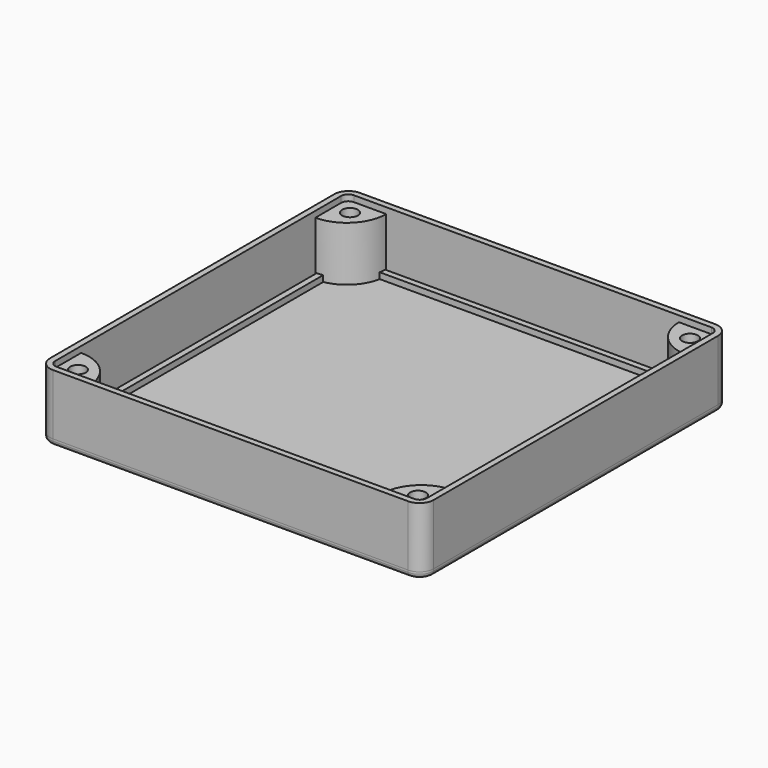
from build123d import *

# Parameters (mm, degrees)
PAD_DEPTH                     = 16.5
POCKET_DEPTH                  = 15
SKETCH002_R                   = 1.95
PAD001_DEPTH                  = 13.5
SKETCH002_MIRRORED_2_R        = 1.95
PAD001_MIRRORED_2_DEPTH       = 13.5
FILLET_R                      = 1
SKETCH008_R                   = 1.5
SKETCH008_R_2                 = 2
POCKET003_DEPTH               = 5
SKETCH009_R                   = 4.5
POCKET004_DEPTH               = 0.75
POCKET005_DEPTH               = 0.5
PAD002_DEPTH                  = 1.5
PAD003_DEPTH                  = 1.5
POCKET001_DEPTH               = 1.5
SKETCH006_R                   = 1.5
PAD004_DEPTH                  = 1.5
SKETCH006_MIRRORED002_2_R     = 1.5
PAD004_MIRRORED002_2_DEPTH    = 1.5
SKETCH007_R                   = 1.5
POCKET002_DEPTH               = 1.5
SKETCH007_MIRRORED004_2_R     = 1.5
POCKET002_MIRRORED004_2_DEPTH = 1.5
FILLET001_R                   = 1
CHAMFER_SIZE                  = 1.98
SKETCH010_W                   = 84.364
SKETCH010_H                   = 26.508
PAD005_DEPTH                  = 0.1
PAD006_DEPTH                  = 0.4


with BuildPart() as main_box:
    # Sketch → Pad (new body)
    with BuildSketch(Plane.XY):
        with BuildLine():
            Line((-44, 47.5), (44, 47.5))
            ThreePointArc((47.5, 44), (46.474874, 46.474874), (44, 47.5))
            Line((47.5, 44), (47.5, -44))
            ThreePointArc((44, -47.5), (46.474874, -46.474874), (47.5, -44))
            Line((44, -47.5), (-44, -47.5))
            ThreePointArc((-47.5, -44), (-46.474874, -46.474874), (-44, -47.5))
            Line((-47.5, -44), (-47.5, 44))
            ThreePointArc((-44, 47.5), (-46.474874, 46.474874), (-47.5, 44))
        make_face()
    extrude(amount=PAD_DEPTH)

    # Sketch001 (on Face10 of Pad) → Pocket (cut)
    with BuildSketch(Plane.XY.offset(16.5)):
        with BuildLine():
            Line((-44.25, 46), (44.25, 46))
            ThreePointArc((46, 44.25), (45.487437, 45.487437), (44.25, 46))
            Line((46, 44.25), (46, -44.25))
            ThreePointArc((44.25, -46), (45.487437, -45.487437), (46, -44.25))
            Line((44.25, -46), (-44.25, -46))
            ThreePointArc((-46, -44.25), (-45.487437, -45.487437), (-44.25, -46))
            Line((-46, -44.25), (-46, 44.25))
            ThreePointArc((-44.25, 46), (-45.487437, 45.487437), (-46, 44.25))
        make_face()
    extrude(amount=-POCKET_DEPTH, mode=Mode.SUBTRACT)

    # Sketch002 (on Face19 of Pocket) → Pad001 (join)
    with BuildSketch(Plane.XY.offset(1.5)):
        with BuildLine():
            Line((-46, 36.25), (-46, 46))
            Line((-46, 46), (-36.25, 46))
            ThreePointArc((-46, 36.25), (-39.105709, 39.105709), (-36.25, 46))
        make_face()
        with Locations((-42.1, 42.1)):
            Circle(SKETCH002_R, mode=Mode.SUBTRACT)
    pad001 = extrude(amount=PAD001_DEPTH)

    # Sketch002 Mirrored 2 → Pad001 Mirrored 2 (add)
    with BuildSketch(Plane(origin=(0, 0, 1.5), x_dir=(-1, 0, 0), z_dir=(0, 0, -1))):
        with BuildLine():
            Line((-46, 36.25), (-46, 46))
            Line((-46, 46), (-36.25, 46))
            ThreePointArc((-46, 36.25), (-39.105709, 39.105709), (-36.25, 46))
        make_face()
        with Locations((-42.1, 42.1)):
            Circle(SKETCH002_MIRRORED_2_R, mode=Mode.SUBTRACT)
    pad001_mirrored_2 = extrude(amount=-PAD001_MIRRORED_2_DEPTH)

    # Mirrored001: Pad001, Pad001 Mirrored 2 across Sketch002 H_Axis
    add(pad001.mirror(Plane(origin=(0, 0, 1.5), x_dir=(0, 0, 1), z_dir=(0, 1, 0))))
    add(pad001_mirrored_2.mirror(Plane(origin=(0, 0, 1.5), x_dir=(0, 0, 1), z_dir=(0, 1, 0))))

    # Fillet
    fillet_edges = [main_box.edges().sort_by_distance(p)[0] for p in [
        (-47.5, 0, 0),
        (-46.474874, 46.474874, 0),
        (0, 47.5, 0),
        (46.474874, 46.474874, 0),
        (47.5, 0, 0),
        (46.474874, -46.474874, 0),
        (0, -47.5, 0),
        (-46.474874, -46.474874, 0),
    ]]
    fillet(fillet_edges, radius=FILLET_R)

    # Sketch008 (on Face29 of Fillet) → Pocket003 (cut)
    with BuildSketch(Plane.XY.offset(1.5)):
        with Locations((0, -33.5)):
            Circle(SKETCH008_R)
        with Locations((-5.5, -5.5)):
            Circle(SKETCH008_R_2)
        with Locations((5.5, -5.5)):
            Circle(SKETCH008_R_2)
        with Locations((-22.125, 2.15)):
            Circle(SKETCH008_R)
        with Locations((-22.125, -42.1)):
            Circle(SKETCH008_R)
        with Locations((22.125, -42.1)):
            Circle(SKETCH008_R)
        with Locations((22.125, 2.15)):
            Circle(SKETCH008_R)
    extrude(amount=-POCKET003_DEPTH, mode=Mode.SUBTRACT)

    # Sketch009 (on Face36 of Pocket003) → Pocket004 (cut)
    with BuildSketch(Plane.XY.offset(1.5)):
        with Locations((-5.5, -5.5)):
            Circle(SKETCH009_R)
        with Locations((5.5, -5.5)):
            Circle(SKETCH009_R)
    extrude(amount=-POCKET004_DEPTH, mode=Mode.SUBTRACT)

    # Clone2D → Pocket005 (cut)
    with BuildSketch(Plane(origin=(0, 27, 0), x_dir=(1, 0, 0), z_dir=(0, 0, 1))):
        with BuildLine():
            add(Edge.make_bspline(
                [(41.189499, -12), (37.085211, 12)],
                knots=[0, 0, 24.348412, 24.348412], degree=1))
            add(Edge.make_bspline(
                [(37.085211, 12), (33.04633, 12)],
                knots=[0, 0, 4.038881, 4.038881], degree=1))
            add(Edge.make_bspline(
                [(33.04633, 12), (34.779615, 1.918605)],
                knots=[0, 0, 10.229311, 10.229311], degree=1))
            add(Edge.make_bspline(
                [(34.779615, 1.918605), (25.688045, 12)],
                knots=[0, 0, 13.575389, 13.575389], degree=1))
            add(Edge.make_bspline(
                [(25.688045, 12), (20.259266, 12)],
                knots=[0, 0, 5.428779, 5.428779], degree=1))
            add(Edge.make_bspline(
                [(20.259266, 12), (29.10556, 2.550872)],
                knots=[0, 0, 12.943837, 12.943837], degree=1))
            add(Edge.make_bspline(
                [(29.10556, 2.550872), (22.630269, -12)],
                knots=[0, 0, 15.926621, 15.926621], degree=1))
            add(Edge.make_bspline(
                [(22.630269, -12), (27.192406, -12)],
                knots=[0, 0, 4.562137, 4.562137], degree=1))
            add(Edge.make_bspline(
                [(27.192406, -12), (32.048874, -0.610465)],
                knots=[0, 0, 12.381712, 12.381712], degree=1))
            add(Edge.make_bspline(
                [(32.048874, -0.610465), (35.85883, -4.696221)],
                knots=[0, 0, 5.586517, 5.586517], degree=1))
            add(Edge.make_bspline(
                [(35.85883, -4.696221), (37.117914, -12)],
                knots=[0, 0, 7.41151, 7.41151], degree=1))
            add(Edge.make_bspline(
                [(37.117914, -12), (41.189499, -12)],
                knots=[0, 0, 4.071584, 4.071584], degree=1))
        make_face()
        with BuildLine():
            add(Edge.make_bspline(
                [(19.609557, 7.395349), (18.873728, 11.651163)],
                knots=[0, 0, 4.318958, 4.318958], degree=1))
            add(Edge.make_bspline(
                [(18.873728, 11.651163), (5.906795, 11.651163)],
                knots=[0, 0, 12.966933, 12.966933], degree=1))
            add(Edge.make_bspline(
                [(5.906795, 11.651163), (6.479106, 8.314317)],
                knots=[0, 0, 3.385569, 3.385569], degree=1))
            add(Edge.make_bspline(
                [(6.479106, 8.314317), (7.492914, 7.31686), (8.621185, 5.598837)],
                knots=[0, 0, 0, 1, 1, 1], degree=2))
            add(Edge.make_bspline(
                [(8.621185, 5.598837), (10.240007, 3.129724), (11.384629, 0.577762)],
                knots=[0, 0, 0, 1, 1, 1], degree=2))
            add(Edge.make_bspline(
                [(11.384629, 0.577762), (12.970749, -2.988009), (13.870094, -5.931323)],
                knots=[0, 0, 0, 1, 1, 1], degree=2))
            add(Edge.make_bspline(
                [(13.870094, -5.931323), (15.112827, -10.037791), (15.42351, -12)],
                knots=[0, 0, 0, 1, 1, 1], degree=2))
            add(Edge.make_bspline(
                [(15.42351, -12), (19.086301, -12)],
                knots=[0, 0, 3.662791, 3.662791], degree=1))
            add(Edge.make_bspline(
                [(19.086301, -12), (18.759266, -9.601744), (17.565589, -5.791788)],
                knots=[0, 0, 0, 1, 1, 1], degree=2))
            add(Edge.make_bspline(
                [(17.565589, -5.791788), (16.371911, -1.981831), (14.802144, 1.261265)],
                knots=[0, 0, 0, 1, 1, 1], degree=2))
            add(Edge.make_bspline(
                [(14.802144, 1.261265), (13.232376, 4.505451), (11.20476, 7.395349)],
                knots=[0, 0, 0, 1, 1, 1], degree=2))
            add(Edge.make_bspline(
                [(11.20476, 7.395349), (19.609557, 7.395349)],
                knots=[0, 0, 8.404797, 8.404797], degree=1))
        make_face()
        with BuildLine():
            add(Edge.make_bspline(
                [(6.080124, -12), (1.975836, 12)],
                knots=[0, 0, 24.348412, 24.348412], degree=1))
            add(Edge.make_bspline(
                [(1.975836, 12), (-4.761083, 12)],
                knots=[0, 0, 6.736919, 6.736919], degree=1))
            add(Edge.make_bspline(
                [(-4.761083, 12), (-7.459121, 12), (-8.603743, 11.655523)],
                knots=[0, 0, 0, 1, 1, 1], degree=2))
            add(Edge.make_bspline(
                [(-8.603743, 11.655523), (-10.386083, 11.131177), (-11.350836, 9.705305)],
                knots=[0, 0, 0, 1, 1, 1], degree=2))
            add(Edge.make_bspline(
                [(-11.350836, 9.705305), (-12.315589, 8.280523), (-12.315589, 6.182049)],
                knots=[0, 0, 0, 1, 1, 1], degree=2))
            add(Edge.make_bspline(
                [(-12.315589, 6.182049), (-12.315589, 4.068314), (-11.383539, 2.642442)],
                knots=[0, 0, 0, 1, 1, 1], degree=2))
            add(Edge.make_bspline(
                [(-11.383539, 2.642442), (-10.45149, 1.21657), (-8.587391, 0.479651)],
                knots=[0, 0, 0, 1, 1, 1], degree=2))
            add(Edge.make_bspline(
                [(-8.587391, 0.479651), (-10.042696, -0.010901), (-10.916969, -1.287427)],
                knots=[0, 0, 0, 1, 1, 1], degree=2))
            add(Edge.make_bspline(
                [(-10.916969, -1.287427), (-11.792333, -2.562863), (-11.792333, -4.263445)],
                knots=[0, 0, 0, 1, 1, 1], degree=2))
            add(Edge.make_bspline(
                [(-11.792333, -4.263445), (-11.792333, -6.586483), (-10.7371, -8.468023)],
                knots=[0, 0, 0, 1, 1, 1], degree=2))
            add(Edge.make_bspline(
                [(-10.7371, -8.468023), (-9.682958, -10.348474), (-7.990007, -11.174782)],
                knots=[0, 0, 0, 1, 1, 1], degree=2))
            add(Edge.make_bspline(
                [(-7.990007, -11.174782), (-6.298147, -12), (-3.191315, -12)],
                knots=[0, 0, 0, 1, 1, 1], degree=2))
            add(Edge.make_bspline(
                [(-3.191315, -12), (6.080124, -12)],
                knots=[0, 0, 9.271439, 9.271439], degree=1))
        make_face()
        with BuildLine():
            add(Edge.make_bspline(
                [(1.370821, -8.162791), (-2.520894, -8.162791)],
                knots=[0, 0, 3.891715, 3.891715], degree=1))
            add(Edge.make_bspline(
                [(-2.520894, -8.162791), (-4.810138, -8.162791), (-5.660429, -7.834666)],
                knots=[0, 0, 0, 1, 1, 1], degree=2))
            add(Edge.make_bspline(
                [(-5.660429, -7.834666), (-6.510719, -7.506541), (-7.083031, -6.630087)],
                knots=[0, 0, 0, 1, 1, 1], degree=2))
            add(Edge.make_bspline(
                [(-7.083031, -6.630087), (-7.655342, -5.752544), (-7.655342, -4.654797)],
                knots=[0, 0, 0, 1, 1, 1], degree=2))
            add(Edge.make_bspline(
                [(-7.655342, -4.654797), (-7.655342, -3.359738), (-6.903161, -2.62173)],
                knots=[0, 0, 0, 1, 1, 1], degree=2))
            add(Edge.make_bspline(
                [(-6.903161, -2.62173), (-6.150981, -1.883721), (-4.532158, -1.883721)],
                knots=[0, 0, 0, 1, 1, 1], degree=2))
            add(Edge.make_bspline(
                [(-4.532158, -1.883721), (0.307958, -1.883721)],
                knots=[0, 0, 4.840116, 4.840116], degree=1))
            add(Edge.make_bspline(
                [(0.307958, -1.883721), (1.370821, -8.162791)],
                knots=[0, 0, 6.36839, 6.36839], degree=1))
        make_face(mode=Mode.SUBTRACT)
        with BuildLine():
            add(Edge.make_bspline(
                [(-0.411519, 2.302326), (-3.501999, 2.302326)],
                knots=[0, 0, 3.09048, 3.09048], degree=1))
            add(Edge.make_bspline(
                [(-3.501999, 2.302326), (-5.529615, 2.302326), (-6.412609, 2.631541)],
                knots=[0, 0, 0, 1, 1, 1], degree=2))
            add(Edge.make_bspline(
                [(-6.412609, 2.631541), (-7.295603, 2.961846), (-7.802507, 3.769622)],
                knots=[0, 0, 0, 1, 1, 1], degree=2))
            add(Edge.make_bspline(
                [(-7.802507, 3.769622), (-8.309411, 4.577398), (-8.309411, 5.616279)],
                knots=[0, 0, 0, 1, 1, 1], degree=2))
            add(Edge.make_bspline(
                [(-8.309411, 5.616279), (-8.309411, 6.456759), (-7.933321, 7.042151)],
                knots=[0, 0, 0, 1, 1, 1], degree=2))
            add(Edge.make_bspline(
                [(-7.933321, 7.042151), (-7.557231, 7.627544), (-6.98492, 7.824855)],
                knots=[0, 0, 0, 1, 1, 1], degree=2))
            add(Edge.make_bspline(
                [(-6.98492, 7.824855), (-6.412609, 8.023256), (-4.515807, 8.023256)],
                knots=[0, 0, 0, 1, 1, 1], degree=2))
            add(Edge.make_bspline(
                [(-4.515807, 8.023256), (-1.392624, 8.023256)],
                knots=[0, 0, 3.123183, 3.123183], degree=1))
            add(Edge.make_bspline(
                [(-1.392624, 8.023256), (-0.411519, 2.302326)],
                knots=[0, 0, 5.804447, 5.804447], degree=1))
        make_face(mode=Mode.SUBTRACT)
        with BuildLine():
            add(Edge.make_bspline(
                [(-13.603016, -12), (-17.707304, 12)],
                knots=[0, 0, 24.348412, 24.348412], degree=1))
            add(Edge.make_bspline(
                [(-17.707304, 12), (-21.746185, 12)],
                knots=[0, 0, 4.038881, 4.038881], degree=1))
            add(Edge.make_bspline(
                [(-21.746185, 12), (-17.641897, -12)],
                knots=[0, 0, 24.348412, 24.348412], degree=1))
            add(Edge.make_bspline(
                [(-17.641897, -12), (-13.603016, -12)],
                knots=[0, 0, 4.038881, 4.038881], degree=1))
        make_face()
        with BuildLine():
            add(Edge.make_bspline(
                [(-37.085211, -12), (-33.307958, -12)],
                knots=[0, 0, 3.777253, 3.777253], degree=1))
            add(Edge.make_bspline(
                [(-33.307958, -12), (-27.993641, 4.125)],
                knots=[0, 0, 16.97815, 16.97815], degree=1))
            add(Edge.make_bspline(
                [(-27.993641, 4.125), (-25.246548, -12)],
                knots=[0, 0, 16.357327, 16.357327], degree=1))
            add(Edge.make_bspline(
                [(-25.246548, -12), (-21.469295, -12)],
                knots=[0, 0, 3.777253, 3.777253], degree=1))
            add(Edge.make_bspline(
                [(-21.469295, -12), (-25.573583, 12)],
                knots=[0, 0, 24.348412, 24.348412], degree=1))
            add(Edge.make_bspline(
                [(-25.573583, 12), (-29.350836, 12)],
                knots=[0, 0, 3.777253, 3.777253], degree=1))
            add(Edge.make_bspline(
                [(-29.350836, 12), (-34.665153, -4.059593)],
                knots=[0, 0, 16.916042, 16.916042], degree=1))
            add(Edge.make_bspline(
                [(-34.665153, -4.059593), (-37.412246, 12)],
                knots=[0, 0, 16.292853, 16.292853], degree=1))
            add(Edge.make_bspline(
                [(-37.412246, 12), (-41.189499, 12)],
                knots=[0, 0, 3.777253, 3.777253], degree=1))
            add(Edge.make_bspline(
                [(-41.189499, 12), (-37.085211, -12)],
                knots=[0, 0, 24.348412, 24.348412], degree=1))
        make_face()
    extrude(amount=POCKET005_DEPTH, mode=Mode.SUBTRACT)


with BuildPart() as main_lid:
    # Sketch003 → Pad002 (new body)
    with BuildSketch(Plane.XY):
        with BuildLine():
            Line((-44, 47.5), (44, 47.5))
            ThreePointArc((47.5, 44), (46.474874, 46.474874), (44, 47.5))
            Line((47.5, 44), (47.5, -44))
            ThreePointArc((44, -47.5), (46.474874, -46.474874), (47.5, -44))
            Line((44, -47.5), (-44, -47.5))
            ThreePointArc((-47.5, -44), (-46.474874, -46.474874), (-44, -47.5))
            Line((-47.5, -44), (-47.5, 44))
            ThreePointArc((-44, 47.5), (-46.474874, 46.474874), (-47.5, 44))
        make_face()
    extrude(amount=PAD002_DEPTH)

    # Sketch004 (on Face10 of Pad002) → Pad003 (join)
    with BuildSketch(Plane.XY.offset(1.5)):
        with BuildLine():
            Line((-43.95, 45.7), (43.95, 45.7))
            ThreePointArc((45.7, 43.95), (45.187437, 45.187437), (43.95, 45.7))
            Line((45.7, 43.95), (45.7, -43.95))
            ThreePointArc((43.95, -45.7), (45.187437, -45.187437), (45.7, -43.95))
            Line((43.95, -45.7), (-43.95, -45.7))
            ThreePointArc((-45.7, -43.95), (-45.187437, -45.187437), (-43.95, -45.7))
            Line((-45.7, -43.95), (-45.7, 43.95))
            ThreePointArc((-43.95, 45.7), (-45.187437, 45.187437), (-45.7, 43.95))
        make_face()
    extrude(amount=PAD003_DEPTH)

    # Sketch005 (on Face19 of Pad003) → Pocket001 (cut)
    with BuildSketch(Plane.XY.offset(3)):
        with BuildLine():
            Line((-43.325, 44.2), (43.325, 44.2))
            ThreePointArc((44.2, 43.325), (43.943718, 43.943718), (43.325, 44.2))
            Line((44.2, 43.325), (44.2, -43.325))
            ThreePointArc((43.325, -44.2), (43.943718, -43.943718), (44.2, -43.325))
            Line((43.325, -44.2), (-43.325, -44.2))
            ThreePointArc((-44.2, -43.325), (-43.943718, -43.943718), (-43.325, -44.2))
            Line((-44.2, -43.325), (-44.2, 43.325))
            ThreePointArc((-43.325, 44.2), (-43.943718, 43.943718), (-44.2, 43.325))
        make_face()
    extrude(amount=-POCKET001_DEPTH, mode=Mode.SUBTRACT)

    # Sketch006 (on Face28 of Pocket001) → Pad004 (join)
    with BuildSketch(Plane.XY.offset(1.5)):
        with BuildLine():
            Line((-44.5, 37), (-44.5, 44.5))
            Line((-44.5, 44.5), (-37, 44.5))
            ThreePointArc((-44.5, 37), (-39.196699, 39.196699), (-37, 44.5))
        make_face()
        with Locations((-42.1, 42.1)):
            Circle(SKETCH006_R, mode=Mode.SUBTRACT)
    pad004 = extrude(amount=PAD004_DEPTH)

    # Sketch006 Mirrored002 2 → Pad004 Mirrored002 2 (add)
    with BuildSketch(Plane(origin=(0, 0, 1.5), x_dir=(-1, 0, 0), z_dir=(0, 0, -1))):
        with BuildLine():
            Line((-44.5, 37), (-44.5, 44.5))
            Line((-44.5, 44.5), (-37, 44.5))
            ThreePointArc((-44.5, 37), (-39.196699, 39.196699), (-37, 44.5))
        make_face()
        with Locations((-42.1, 42.1)):
            Circle(SKETCH006_MIRRORED002_2_R, mode=Mode.SUBTRACT)
    pad004_mirrored002_2 = extrude(amount=-PAD004_MIRRORED002_2_DEPTH)

    # Mirrored003: Pad004, Pad004 Mirrored002 2 across Sketch006 H_Axis
    add(pad004.mirror(Plane(origin=(0, 0, 1.5), x_dir=(0, 0, 1), z_dir=(0, 1, 0))))
    add(pad004_mirrored002_2.mirror(Plane(origin=(0, 0, 1.5), x_dir=(0, 0, 1), z_dir=(0, 1, 0))))

    # Sketch007 (on Face30 of MultiTransform001) → Pocket002 (cut)
    with BuildSketch(Plane.XY.offset(1.5)):
        with Locations((-42.1, 42.1)):
            Circle(SKETCH007_R)
    pocket002 = extrude(amount=-POCKET002_DEPTH, mode=Mode.SUBTRACT)

    # Sketch007 Mirrored004 2 → Pocket002 Mirrored004 2 (cut)
    with BuildSketch(Plane(origin=(0, 0, 1.5), x_dir=(-1, 0, 0), z_dir=(0, 0, -1))):
        with Locations((-42.1, 42.1)):
            Circle(SKETCH007_MIRRORED004_2_R)
    pocket002_mirrored004_2 = extrude(amount=POCKET002_MIRRORED004_2_DEPTH, mode=Mode.SUBTRACT)

    # Mirrored005: Pocket002, Pocket002 Mirrored004 2 across Sketch007 H_Axis
    add(pocket002.mirror(Plane(origin=(0, 0, 1.5), x_dir=(0, 0, 1), z_dir=(0, 1, 0))), mode=Mode.SUBTRACT)
    add(pocket002_mirrored004_2.mirror(Plane(origin=(0, 0, 1.5), x_dir=(0, 0, 1), z_dir=(0, 1, 0))), mode=Mode.SUBTRACT)

    # Fillet001
    fillet001_edges = [main_lid.edges().sort_by_distance(p)[0] for p in [
        (47.5, 0, 0),
        (46.474874, 46.474874, 0),
        (0, 47.5, 0),
        (-46.474874, 46.474874, 0),
        (-47.5, 0, 0),
        (-46.474874, -46.474874, 0),
        (0, -47.5, 0),
        (46.474874, -46.474874, 0),
    ]]
    fillet(fillet001_edges, radius=FILLET001_R)

    # Chamfer
    chamfer_edges = [main_lid.edges().sort_by_distance(p)[0] for p in [
        (43.6, 42.1, 0),
        (-43.6, 42.1, 0),
        (-43.6, -42.1, 0),
        (43.6, -42.1, 0),
    ]]
    chamfer(chamfer_edges, length=CHAMFER_SIZE)


with BuildPart() as k7bin_body:
    # Sketch010 → Pad005 (new body)
    with BuildSketch(Plane.XY.offset(0.5)):
        with Locations((0.107, 26.749)):
            Rectangle(SKETCH010_W, SKETCH010_H)
    extrude(amount=-PAD005_DEPTH)

    # Clone2D001 → Pad006 (join)
    with BuildSketch(Plane(origin=(0, 27, 0), x_dir=(1, 0, 0), z_dir=(0, 0, 1))):
        with BuildLine():
            add(Edge.make_bspline(
                [(41.189499, -12), (37.085211, 12)],
                knots=[0, 0, 24.348412, 24.348412], degree=1))
            add(Edge.make_bspline(
                [(37.085211, 12), (33.04633, 12)],
                knots=[0, 0, 4.038881, 4.038881], degree=1))
            add(Edge.make_bspline(
                [(33.04633, 12), (34.779615, 1.918605)],
                knots=[0, 0, 10.229311, 10.229311], degree=1))
            add(Edge.make_bspline(
                [(34.779615, 1.918605), (25.688045, 12)],
                knots=[0, 0, 13.575389, 13.575389], degree=1))
            add(Edge.make_bspline(
                [(25.688045, 12), (20.259266, 12)],
                knots=[0, 0, 5.428779, 5.428779], degree=1))
            add(Edge.make_bspline(
                [(20.259266, 12), (29.10556, 2.550872)],
                knots=[0, 0, 12.943837, 12.943837], degree=1))
            add(Edge.make_bspline(
                [(29.10556, 2.550872), (22.630269, -12)],
                knots=[0, 0, 15.926621, 15.926621], degree=1))
            add(Edge.make_bspline(
                [(22.630269, -12), (27.192406, -12)],
                knots=[0, 0, 4.562137, 4.562137], degree=1))
            add(Edge.make_bspline(
                [(27.192406, -12), (32.048874, -0.610465)],
                knots=[0, 0, 12.381712, 12.381712], degree=1))
            add(Edge.make_bspline(
                [(32.048874, -0.610465), (35.85883, -4.696221)],
                knots=[0, 0, 5.586517, 5.586517], degree=1))
            add(Edge.make_bspline(
                [(35.85883, -4.696221), (37.117914, -12)],
                knots=[0, 0, 7.41151, 7.41151], degree=1))
            add(Edge.make_bspline(
                [(37.117914, -12), (41.189499, -12)],
                knots=[0, 0, 4.071584, 4.071584], degree=1))
        make_face()
        with BuildLine():
            add(Edge.make_bspline(
                [(19.609557, 7.395349), (18.873728, 11.651163)],
                knots=[0, 0, 4.318958, 4.318958], degree=1))
            add(Edge.make_bspline(
                [(18.873728, 11.651163), (5.906795, 11.651163)],
                knots=[0, 0, 12.966933, 12.966933], degree=1))
            add(Edge.make_bspline(
                [(5.906795, 11.651163), (6.479106, 8.314317)],
                knots=[0, 0, 3.385569, 3.385569], degree=1))
            add(Edge.make_bspline(
                [(6.479106, 8.314317), (7.492914, 7.31686), (8.621185, 5.598837)],
                knots=[0, 0, 0, 1, 1, 1], degree=2))
            add(Edge.make_bspline(
                [(8.621185, 5.598837), (10.240007, 3.129724), (11.384629, 0.577762)],
                knots=[0, 0, 0, 1, 1, 1], degree=2))
            add(Edge.make_bspline(
                [(11.384629, 0.577762), (12.970749, -2.988009), (13.870094, -5.931323)],
                knots=[0, 0, 0, 1, 1, 1], degree=2))
            add(Edge.make_bspline(
                [(13.870094, -5.931323), (15.112827, -10.037791), (15.42351, -12)],
                knots=[0, 0, 0, 1, 1, 1], degree=2))
            add(Edge.make_bspline(
                [(15.42351, -12), (19.086301, -12)],
                knots=[0, 0, 3.662791, 3.662791], degree=1))
            add(Edge.make_bspline(
                [(19.086301, -12), (18.759266, -9.601744), (17.565589, -5.791788)],
                knots=[0, 0, 0, 1, 1, 1], degree=2))
            add(Edge.make_bspline(
                [(17.565589, -5.791788), (16.371911, -1.981831), (14.802144, 1.261265)],
                knots=[0, 0, 0, 1, 1, 1], degree=2))
            add(Edge.make_bspline(
                [(14.802144, 1.261265), (13.232376, 4.505451), (11.20476, 7.395349)],
                knots=[0, 0, 0, 1, 1, 1], degree=2))
            add(Edge.make_bspline(
                [(11.20476, 7.395349), (19.609557, 7.395349)],
                knots=[0, 0, 8.404797, 8.404797], degree=1))
        make_face()
        with BuildLine():
            add(Edge.make_bspline(
                [(6.080124, -12), (1.975836, 12)],
                knots=[0, 0, 24.348412, 24.348412], degree=1))
            add(Edge.make_bspline(
                [(1.975836, 12), (-4.761083, 12)],
                knots=[0, 0, 6.736919, 6.736919], degree=1))
            add(Edge.make_bspline(
                [(-4.761083, 12), (-7.459121, 12), (-8.603743, 11.655523)],
                knots=[0, 0, 0, 1, 1, 1], degree=2))
            add(Edge.make_bspline(
                [(-8.603743, 11.655523), (-10.386083, 11.131177), (-11.350836, 9.705305)],
                knots=[0, 0, 0, 1, 1, 1], degree=2))
            add(Edge.make_bspline(
                [(-11.350836, 9.705305), (-12.315589, 8.280523), (-12.315589, 6.182049)],
                knots=[0, 0, 0, 1, 1, 1], degree=2))
            add(Edge.make_bspline(
                [(-12.315589, 6.182049), (-12.315589, 4.068314), (-11.383539, 2.642442)],
                knots=[0, 0, 0, 1, 1, 1], degree=2))
            add(Edge.make_bspline(
                [(-11.383539, 2.642442), (-10.45149, 1.21657), (-8.587391, 0.479651)],
                knots=[0, 0, 0, 1, 1, 1], degree=2))
            add(Edge.make_bspline(
                [(-8.587391, 0.479651), (-10.042696, -0.010901), (-10.916969, -1.287427)],
                knots=[0, 0, 0, 1, 1, 1], degree=2))
            add(Edge.make_bspline(
                [(-10.916969, -1.287427), (-11.792333, -2.562863), (-11.792333, -4.263445)],
                knots=[0, 0, 0, 1, 1, 1], degree=2))
            add(Edge.make_bspline(
                [(-11.792333, -4.263445), (-11.792333, -6.586483), (-10.7371, -8.468023)],
                knots=[0, 0, 0, 1, 1, 1], degree=2))
            add(Edge.make_bspline(
                [(-10.7371, -8.468023), (-9.682958, -10.348474), (-7.990007, -11.174782)],
                knots=[0, 0, 0, 1, 1, 1], degree=2))
            add(Edge.make_bspline(
                [(-7.990007, -11.174782), (-6.298147, -12), (-3.191315, -12)],
                knots=[0, 0, 0, 1, 1, 1], degree=2))
            add(Edge.make_bspline(
                [(-3.191315, -12), (6.080124, -12)],
                knots=[0, 0, 9.271439, 9.271439], degree=1))
        make_face()
        with BuildLine():
            add(Edge.make_bspline(
                [(1.370821, -8.162791), (-2.520894, -8.162791)],
                knots=[0, 0, 3.891715, 3.891715], degree=1))
            add(Edge.make_bspline(
                [(-2.520894, -8.162791), (-4.810138, -8.162791), (-5.660429, -7.834666)],
                knots=[0, 0, 0, 1, 1, 1], degree=2))
            add(Edge.make_bspline(
                [(-5.660429, -7.834666), (-6.510719, -7.506541), (-7.083031, -6.630087)],
                knots=[0, 0, 0, 1, 1, 1], degree=2))
            add(Edge.make_bspline(
                [(-7.083031, -6.630087), (-7.655342, -5.752544), (-7.655342, -4.654797)],
                knots=[0, 0, 0, 1, 1, 1], degree=2))
            add(Edge.make_bspline(
                [(-7.655342, -4.654797), (-7.655342, -3.359738), (-6.903161, -2.62173)],
                knots=[0, 0, 0, 1, 1, 1], degree=2))
            add(Edge.make_bspline(
                [(-6.903161, -2.62173), (-6.150981, -1.883721), (-4.532158, -1.883721)],
                knots=[0, 0, 0, 1, 1, 1], degree=2))
            add(Edge.make_bspline(
                [(-4.532158, -1.883721), (0.307958, -1.883721)],
                knots=[0, 0, 4.840116, 4.840116], degree=1))
            add(Edge.make_bspline(
                [(0.307958, -1.883721), (1.370821, -8.162791)],
                knots=[0, 0, 6.36839, 6.36839], degree=1))
        make_face(mode=Mode.SUBTRACT)
        with BuildLine():
            add(Edge.make_bspline(
                [(-0.411519, 2.302326), (-3.501999, 2.302326)],
                knots=[0, 0, 3.09048, 3.09048], degree=1))
            add(Edge.make_bspline(
                [(-3.501999, 2.302326), (-5.529615, 2.302326), (-6.412609, 2.631541)],
                knots=[0, 0, 0, 1, 1, 1], degree=2))
            add(Edge.make_bspline(
                [(-6.412609, 2.631541), (-7.295603, 2.961846), (-7.802507, 3.769622)],
                knots=[0, 0, 0, 1, 1, 1], degree=2))
            add(Edge.make_bspline(
                [(-7.802507, 3.769622), (-8.309411, 4.577398), (-8.309411, 5.616279)],
                knots=[0, 0, 0, 1, 1, 1], degree=2))
            add(Edge.make_bspline(
                [(-8.309411, 5.616279), (-8.309411, 6.456759), (-7.933321, 7.042151)],
                knots=[0, 0, 0, 1, 1, 1], degree=2))
            add(Edge.make_bspline(
                [(-7.933321, 7.042151), (-7.557231, 7.627544), (-6.98492, 7.824855)],
                knots=[0, 0, 0, 1, 1, 1], degree=2))
            add(Edge.make_bspline(
                [(-6.98492, 7.824855), (-6.412609, 8.023256), (-4.515807, 8.023256)],
                knots=[0, 0, 0, 1, 1, 1], degree=2))
            add(Edge.make_bspline(
                [(-4.515807, 8.023256), (-1.392624, 8.023256)],
                knots=[0, 0, 3.123183, 3.123183], degree=1))
            add(Edge.make_bspline(
                [(-1.392624, 8.023256), (-0.411519, 2.302326)],
                knots=[0, 0, 5.804447, 5.804447], degree=1))
        make_face(mode=Mode.SUBTRACT)
        with BuildLine():
            add(Edge.make_bspline(
                [(-13.603016, -12), (-17.707304, 12)],
                knots=[0, 0, 24.348412, 24.348412], degree=1))
            add(Edge.make_bspline(
                [(-17.707304, 12), (-21.746185, 12)],
                knots=[0, 0, 4.038881, 4.038881], degree=1))
            add(Edge.make_bspline(
                [(-21.746185, 12), (-17.641897, -12)],
                knots=[0, 0, 24.348412, 24.348412], degree=1))
            add(Edge.make_bspline(
                [(-17.641897, -12), (-13.603016, -12)],
                knots=[0, 0, 4.038881, 4.038881], degree=1))
        make_face()
        with BuildLine():
            add(Edge.make_bspline(
                [(-37.085211, -12), (-33.307958, -12)],
                knots=[0, 0, 3.777253, 3.777253], degree=1))
            add(Edge.make_bspline(
                [(-33.307958, -12), (-27.993641, 4.125)],
                knots=[0, 0, 16.97815, 16.97815], degree=1))
            add(Edge.make_bspline(
                [(-27.993641, 4.125), (-25.246548, -12)],
                knots=[0, 0, 16.357327, 16.357327], degree=1))
            add(Edge.make_bspline(
                [(-25.246548, -12), (-21.469295, -12)],
                knots=[0, 0, 3.777253, 3.777253], degree=1))
            add(Edge.make_bspline(
                [(-21.469295, -12), (-25.573583, 12)],
                knots=[0, 0, 24.348412, 24.348412], degree=1))
            add(Edge.make_bspline(
                [(-25.573583, 12), (-29.350836, 12)],
                knots=[0, 0, 3.777253, 3.777253], degree=1))
            add(Edge.make_bspline(
                [(-29.350836, 12), (-34.665153, -4.059593)],
                knots=[0, 0, 16.916042, 16.916042], degree=1))
            add(Edge.make_bspline(
                [(-34.665153, -4.059593), (-37.412246, 12)],
                knots=[0, 0, 16.292853, 16.292853], degree=1))
            add(Edge.make_bspline(
                [(-37.412246, 12), (-41.189499, 12)],
                knots=[0, 0, 3.777253, 3.777253], degree=1))
            add(Edge.make_bspline(
                [(-41.189499, 12), (-37.085211, -12)],
                knots=[0, 0, 24.348412, 24.348412], degree=1))
        make_face()
    extrude(amount=PAD006_DEPTH)


solid = Compound([main_box.part, main_lid.part, k7bin_body.part])
